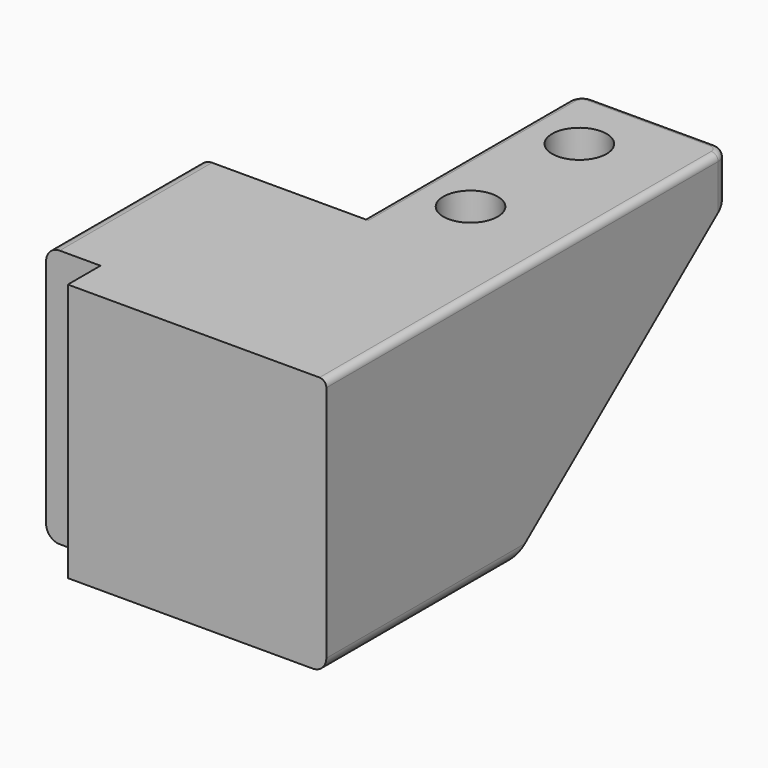
from build123d import *

# Parameters (mm, degrees)
SKETCH_W     = 12
SKETCH_H     = 14
SKETCH_R     = 2.5
PAD_DEPTH    = 3
SKETCH001_W  = 2
SKETCH001_H  = 14
PAD001_DEPTH = 16
SKETCH002_W  = 14
SKETCH002_H  = 3
PAD008_DEPTH = 10
SKETCH004_W  = 14
SKETCH004_H  = 3
PAD004_DEPTH = 8
SKETCH003_W  = 34
SKETCH003_H  = 3
PAD009_DEPTH = 8
SKETCH006_R  = 2
POCKET_DEPTH = 19.001
PAD005_DEPTH = 3
SKETCH008_W  = 19
SKETCH008_H  = 19
PAD010_DEPTH = 3
SKETCH009_W  = 2
SKETCH009_H  = 19
PAD011_DEPTH = 3
CHAMFER_SIZE = 1.5
FILLET_R     = 1
FILLET001_R  = 1
FILLET002_R  = 1
FILLET003_R  = 0.5
FILLET004_R  = 1


with BuildPart() as part:
    # Sketch → Pad (new body)
    with BuildSketch(Plane.XY):
        with Locations((-1, 0)):
            Rectangle(SKETCH_W, SKETCH_H)
        Circle(SKETCH_R, mode=Mode.SUBTRACT)
    extrude(amount=PAD_DEPTH)

    # Sketch001 (on Face7 of Pad) → Pad001 (join)
    with BuildSketch(Plane.XY.offset(3)):
        with Locations((-6, 0)):
            Rectangle(SKETCH001_W, SKETCH001_H)
    extrude(amount=PAD001_DEPTH)

    # Sketch002 (on Face10 of Pad001) → Pad008 (join)
    with BuildSketch(Plane.YZ.offset(-5)):
        with Locations((0, 17.5)):
            Rectangle(SKETCH002_W, SKETCH002_H)
    extrude(amount=PAD008_DEPTH)

    # Sketch004 → Pad004 (join)
    with BuildSketch(Plane(origin=(5, 0, 0), x_dir=(0, -1, 0), z_dir=(-1, 0, 0))):
        with Locations((0, 1.5)):
            Rectangle(SKETCH004_W, SKETCH004_H)
    extrude(amount=-PAD004_DEPTH)

    # Sketch003 → Pad009 (join)
    with BuildSketch(Plane(origin=(5, 0, 0), x_dir=(0, -1, 0), z_dir=(-1, 0, 0))):
        with Locations((-10, 17.5)):
            Rectangle(SKETCH003_W, SKETCH003_H)
    extrude(amount=-PAD009_DEPTH)

    # Sketch006 → Pocket (cut, through all)
    with BuildSketch(Plane.XY.offset(19)):
        with Locations((9, 22)):
            Circle(SKETCH006_R)
        with Locations((9, 12)):
            Circle(SKETCH006_R)
    extrude(amount=-POCKET_DEPTH, mode=Mode.SUBTRACT)

    # Sketch007 (on Face26 of Pocket) → Pad005 (join)
    with BuildSketch(Plane.YZ.offset(13)):
        Polygon((27, 19), (-7, 19), (-7, 0), (7, 0), (27, 16), align=None)
    extrude(amount=PAD005_DEPTH)

    # Sketch008 (on Face19 of Pad005) → Pad010 (join)
    with BuildSketch(Plane.XZ.offset(7)):
        with Locations((6.5, 9.5)):
            Rectangle(SKETCH008_W, SKETCH008_H)
    extrude(amount=PAD010_DEPTH)

    # Sketch009 (on Face14 of Pad010) → Pad011 (join)
    with BuildSketch(Plane.YZ.offset(-5)):
        with Locations((-6, 9.5)):
            Rectangle(SKETCH009_W, SKETCH009_H)
    extrude(amount=PAD011_DEPTH)

    # Chamfer
    chamfer_edges = [part.edges().sort_by_distance(p)[0] for p in [
        (-2, -5, 9.5),
    ]]
    chamfer(chamfer_edges, length=CHAMFER_SIZE)

    # Fillet
    fillet_edges = [part.edges().sort_by_distance(p)[0] for p in [
        (16, 0, 0),
    ]]
    fillet(fillet_edges, radius=FILLET_R)

    # Fillet001
    fillet001_edges = [part.edges().sort_by_distance(p)[0] for p in [
        (-7, 0, 0),
    ]]
    fillet(fillet001_edges, radius=FILLET001_R)

    # Fillet002
    fillet002_edges = [part.edges().sort_by_distance(p)[0] for p in [
        (5, 27, 17.5),
        (16, 27, 17.5),
    ]]
    fillet(fillet002_edges, radius=FILLET002_R)

    # Fillet003
    fillet003_edges = [part.edges().sort_by_distance(p)[0] for p in [
        (16, 9.5, 19),
        (5, 16.5, 19),
    ]]
    fillet(fillet003_edges, radius=FILLET003_R)

    # Fillet004
    fillet004_edges = [part.edges().sort_by_distance(p)[0] for p in [
        (-7, 0, 19),
    ]]
    fillet(fillet004_edges, radius=FILLET004_R)


solid = part.part
